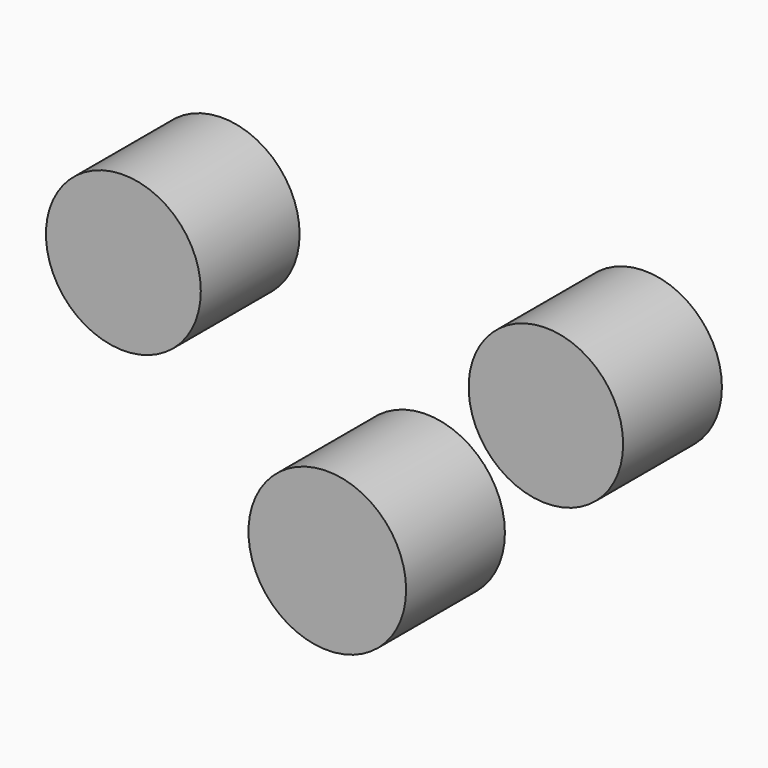
from build123d import *

# Parameters (mm, degrees)
F0_R     = 16.211686
F1_DEPTH = 25.4
F2_R     = 15.926725
F2_R_2   = 16.123972
F3_DEPTH = 25.4
F4_R     = 15.890332
F5_DEPTH = 25.4


with BuildPart() as f1:
    # F0 (on Front) → F1 (new body)
    with BuildSketch(Plane.XZ):
        Circle(F0_R)
    extrude(amount=F1_DEPTH)

    # F2 (on Front) → F3 (join)
    with BuildSketch(Plane.XZ):
        with Locations((-41.940726, 40.325791)):
            Circle(F2_R)
        Circle(F2_R_2)
    extrude(amount=F3_DEPTH)


with BuildPart() as f5:
    # F4 (on Front) → F5 (new body)
    with BuildSketch(Plane.XZ):
        with Locations((44.957999, 40.894005)):
            Circle(F4_R)
    extrude(amount=F5_DEPTH)


solid = Compound([f1.part, f5.part])
